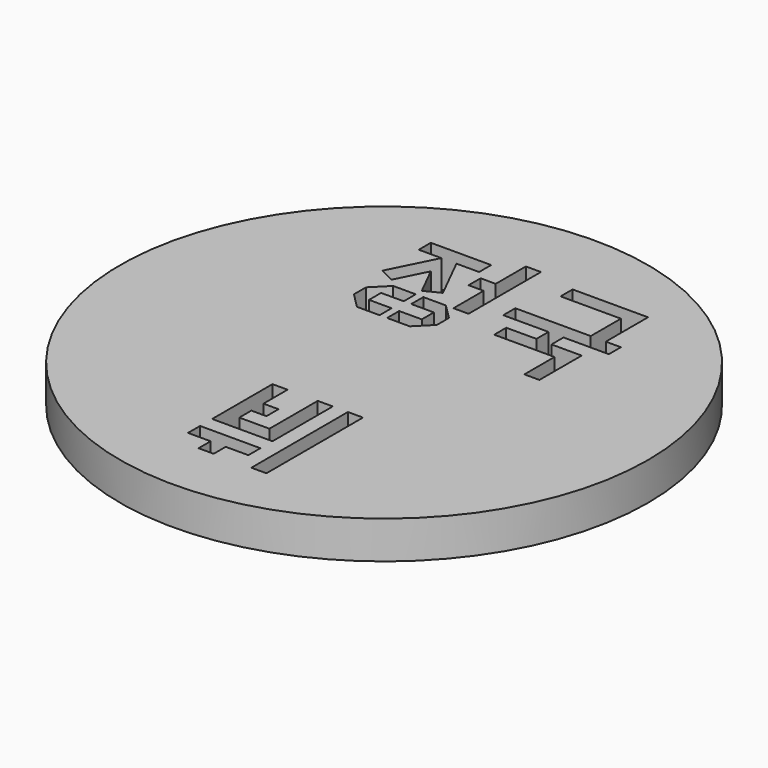
from build123d import *

# Parameters (mm, degrees)
F0_R     = 35
F0_W     = 2
F0_H     = 16
F1_DEPTH = 5


with BuildPart() as f1:
    # F0 (on Top) → F1 (new body)
    with BuildSketch(Plane.XY):
        with Locations((-43.957851, 5.945804)):
            Circle(F0_R)
        Polygon((-49.957851, -19.054196), (-49.957851, -17.054196), (-41.957851, -17.054196), (-41.957851, -19.054196), (-44.957851, -19.054196), (-44.957851, -21.054196), (-46.957851, -21.054196), (-46.957851, -19.054196), align=None, mode=Mode.SUBTRACT)
        Polygon((-49.957851, -15.054196), (-49.957851, -5.054196), (-47.957851, -5.054196), (-47.957851, -9.054196), (-45.957851, -9.054196), (-45.957851, -11.054196), (-47.957851, -11.054196), (-47.957851, -13.054196), (-43.957851, -13.054196), (-43.957851, -5.054196), (-41.957851, -5.054196), (-41.957851, -15.054196), align=None, mode=Mode.SUBTRACT)
        with Locations((-38.957851, -13.054196)):
            Rectangle(F0_W, F0_H, mode=Mode.SUBTRACT)
        Polygon((-55.957247, 15.945804), (-55.957247, 17.945804), (-53.957851, 19.945804), (-50.957851, 19.945804), (-50.957851, 17.945804), (-53.957851, 17.945804), (-53.957851, 15.945804), (-50.957851, 15.945804), (-50.957851, 13.945804), (-53.957851, 13.945804), align=None, mode=Mode.SUBTRACT)
        Polygon((-49.957851, 17.945804), (-49.957851, 19.945804), (-46.957851, 19.945804), (-44.958153, 17.946106), (-44.958153, 15.946106), (-46.957851, 13.945804), (-49.957851, 13.945804), (-49.957851, 15.945804), (-46.957851, 15.945804), (-46.957851, 17.945804), align=None, mode=Mode.SUBTRACT)
        Polygon((-56.959663, 27.945804), (-56.959663, 29.945804), (-48.959663, 29.945804), (-48.959663, 27.945804), (-51.959663, 27.945804), (-48.957851, 21.945804), (-50.957927, 20.945804), (-52.957927, 24.945652), (-54.957927, 20.945804), (-56.957851, 21.945804), (-53.959663, 27.945804), align=None, mode=Mode.SUBTRACT)
        Polygon((-43.959663, 19.945804), (-45.959663, 19.945804), (-45.959663, 24.945804), (-47.959663, 24.945804), (-47.959663, 26.945804), (-45.959663, 26.945804), (-45.959663, 31.945804), (-43.959663, 31.945804), align=None, mode=Mode.SUBTRACT)
        Polygon((-38.959663, 28.945804), (-38.959663, 30.945804), (-28.959663, 30.945804), (-28.959663, 28.945804), (-28.959663, 23.945804), (-26.959663, 23.945804), (-26.959663, 21.945804), (-32.959663, 21.945804), (-32.959663, 19.945804), (-28.959663, 19.945804), (-28.959663, 12.945804), (-30.959663, 12.945804), (-30.959663, 17.945804), (-38.959663, 17.945804), (-38.959663, 19.945804), (-34.959663, 19.945804), (-34.959663, 21.945804), (-40.959663, 21.945804), (-40.959663, 23.945804), (-30.959663, 23.945804), (-30.959663, 28.945804), align=None, mode=Mode.SUBTRACT)
    extrude(amount=F1_DEPTH)


solid = f1.part
